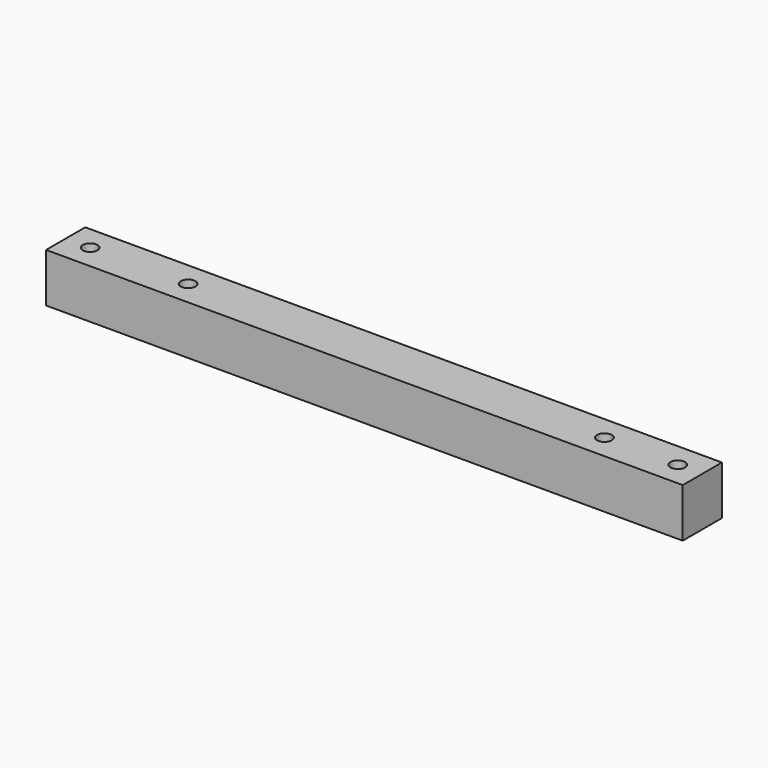
from build123d import *

# Parameters (mm, degrees)
SKETCH_W     = 130
SKETCH_H     = 10
SKETCH_R     = 1.5
PAD_DEPTH    = 10
SKETCH001_R  = 3.2
POCKET_DEPTH = 4


with BuildPart() as part:
    # Sketch → Pad (new body)
    with BuildSketch(Plane.XY):
        with Locations((65, 5)):
            Rectangle(SKETCH_W, SKETCH_H)
        with Locations((5, 5)):
            Circle(SKETCH_R, mode=Mode.SUBTRACT)
        with Locations((25, 5)):
            Circle(SKETCH_R, mode=Mode.SUBTRACT)
        with Locations((125, 5)):
            Circle(SKETCH_R, mode=Mode.SUBTRACT)
        with Locations((110, 5)):
            Circle(SKETCH_R, mode=Mode.SUBTRACT)
    extrude(amount=PAD_DEPTH)

    # Sketch001 (on Face9 of Pad) → Pocket (cut)
    with BuildSketch(Plane(origin=(0, 0, 0), x_dir=(1, 0, 0), z_dir=(0, 0, -1))):
        with Locations((25, -5)):
            Circle(SKETCH001_R)
        with Locations((110, -5)):
            Circle(SKETCH001_R)
    extrude(amount=-POCKET_DEPTH, mode=Mode.SUBTRACT)


solid = part.part
